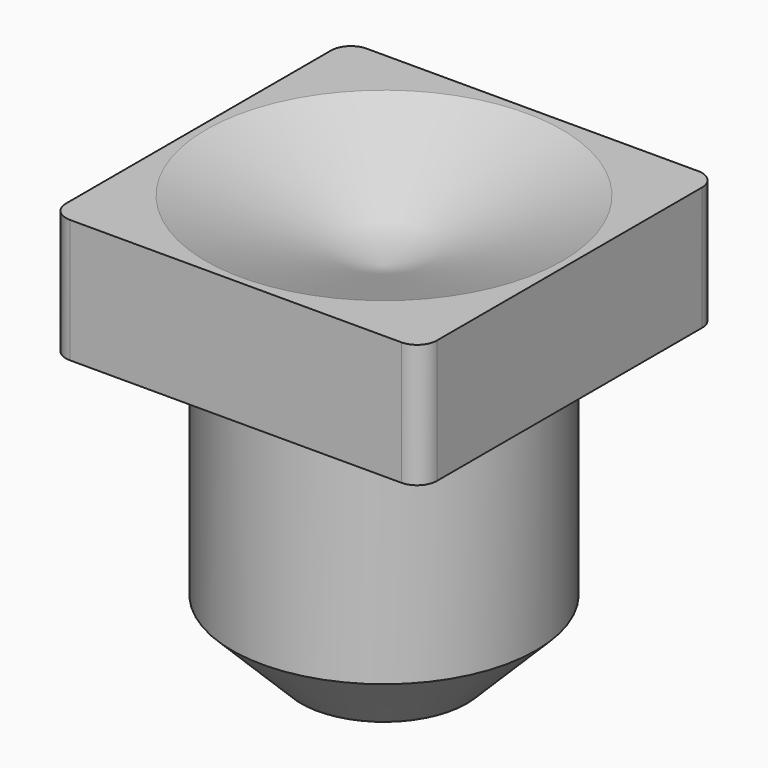
from build123d import *

# Parameters (mm, degrees)
F0_R     = 3.90525
F1_DEPTH = 7.62
F2_W     = 9.525
F2_H     = 9.525
F3_DEPTH = 3.175
F6_R     = 0.508
F7_SIZE  = 1.778


with BuildPart() as f1:
    # F0 (on Top) → F1 (new body)
    with BuildSketch(Plane.XY):
        Circle(F0_R)
    extrude(amount=-F1_DEPTH)

    # F2 (on face) → F3 (join)
    with BuildSketch(Plane.XY):
        Rectangle(F2_W, F2_H)
    extrude(amount=F3_DEPTH)

    # F4 (on Front) → F5 (revolve, cut)
    with BuildSketch(Plane.XZ):
        Polygon((0, 1.5875), (4.572, 3.175), (0, 3.175), align=None)
    revolve(axis=Axis((0, 0, 2.38125), (0, 0, 1)), mode=Mode.SUBTRACT)

    # F6
    f6_edges = [f1.edges().sort_by_distance(p)[0] for p in [
        (-4.7625, 4.7625, 1.5875),
        (4.7625, 4.7625, 1.5875),
        (-4.7625, -4.7625, 1.5875),
        (4.7625, -4.7625, 1.5875),
    ]]
    fillet(f6_edges, radius=F6_R)

    # F7
    f7_edges = [f1.edges().sort_by_distance(p)[0] for p in [
        (-3.90525, 0, -7.62),
    ]]
    chamfer(f7_edges, length=F7_SIZE)


solid = f1.part
